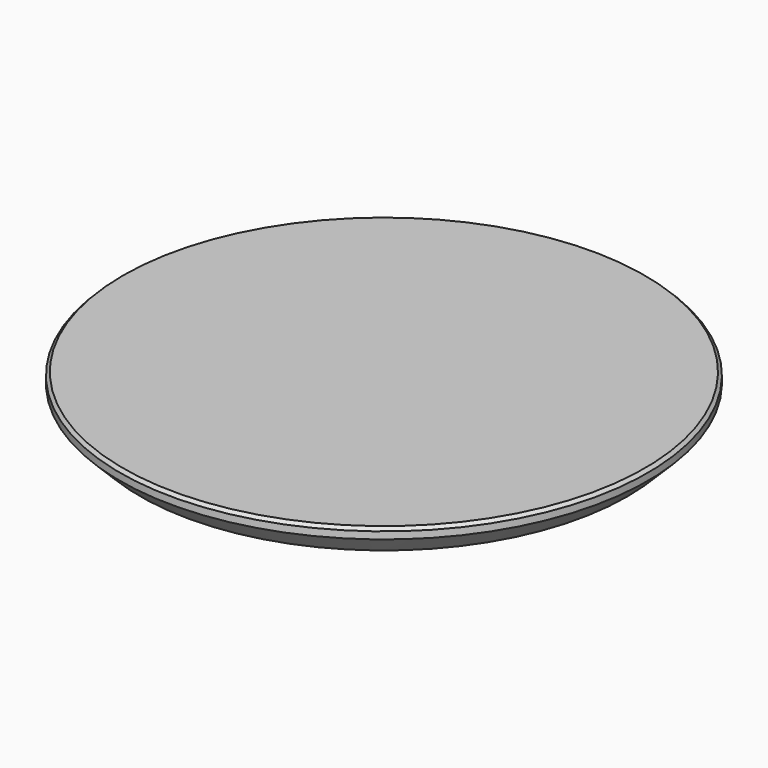
from build123d import *

# Parameters (mm, degrees)
F0_W     = 80
F0_H     = 15
F4_SIZE  = 1.5
F5_SIZE  = 1.5
F9_COUNT = 4


with BuildPart() as f1:
    # F0 (on Front) → F1 (revolve)
    with BuildSketch(Plane.XZ):
        with Locations((-40, 7.5)):
            Rectangle(F0_W, F0_H)
    revolve(axis=Axis((0, 0, 7.5), (0, 0, 1)))

    # F5
    f5_edges = [f1.edges().sort_by_distance(p)[0] for p in [
        (80, 0, 0),
    ]]
    chamfer(f5_edges, length=F5_SIZE)


with BuildPart() as f3:
    # F2 (on Front) → F3 (revolve)
    with BuildSketch(Plane.XZ):
        Polygon((-120, 15), (0, 15), (0, 30), (-130, 30), (-130, 25), align=None)
    revolve(axis=Axis((0, 0, 22.5), (0, 0, -1)))

    # F4
    f4_edges = [f3.edges().sort_by_distance(p)[0] for p in [
        (130, 0, 30),
    ]]
    chamfer(f4_edges, length=F4_SIZE)


with BuildPart() as f7:
    # F6 (on Front) → F7 (revolve)
    with BuildSketch(Plane.XZ):
        with BuildLine():
            Line((63.5, 0), (57.5, 0))
            Line((57.5, 0), (57.5, -2.28))
            Line((57.5, -2.28), (61.22, -2.28))
            ThreePointArc((61.22, -2.28), (62.832203, -1.612203), (63.5, 0))
        make_face()
    revolve(axis=Axis((57.5, 0, -1.14), (0, 0, -1)))


with BuildPart() as f9_1:
    # F9: instance of F7
    add(f7.part.rotate(Axis((0, 0, -31.355388), (0, 0, -1)), 1 * 360 / F9_COUNT))


with BuildPart() as f9_2:
    # F9: instance of F7
    add(f7.part.rotate(Axis((0, 0, -31.355388), (0, 0, -1)), 2 * 360 / F9_COUNT))


with BuildPart() as f9_3:
    # F9: instance of F7
    add(f7.part.rotate(Axis((0, 0, -31.355388), (0, 0, -1)), 3 * 360 / F9_COUNT))


solid = Compound([f1.part, f3.part, f7.part, f9_1.part, f9_2.part, f9_3.part])
